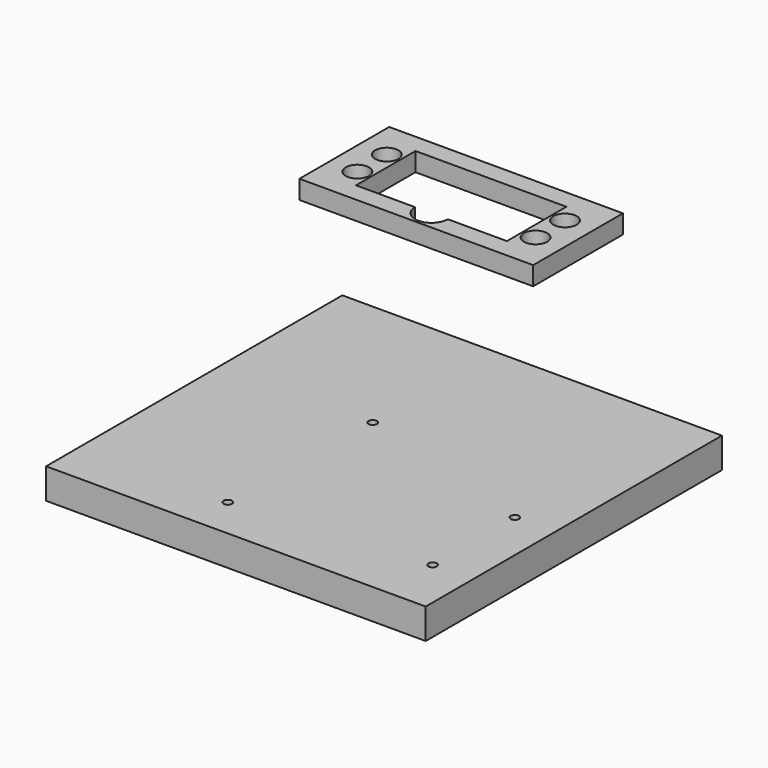
from build123d import *

# Parameters (mm, degrees)
F0_R      = 3.175
F1_DEPTH  = 2.54
F2_W      = 114.3
F2_H      = 114.3
F2_W_2    = 104.14
F2_H_2    = 101.6
F3_DEPTH  = 3.175
F4_W      = 103.124
F4_H      = 100.584
F4_W_2    = 92.964
F4_H_2    = 90.424
F5_DEPTH  = 48.895
F6_W      = 103.124
F6_H      = 100.584
F7_DEPTH  = 8.255
F8_R      = 1.143
F9_DEPTH  = 6.35
F10_R     = 6.35
F11_R     = 1.143
F12_DEPTH = 12.7
F13_R     = 1.651
F14_DEPTH = 53.976
F15_W     = 114.3
F15_H     = 114.3
F15_W_2   = 63.5
F15_H_2   = 30.48
F16_DEPTH = 45.72
F17_W     = 63.5
F17_H     = 3.1115
F18_DEPTH = 45.721


with BuildPart() as f1:
    # F0 (on Top) → F1 (new body, symmetric)
    with BuildSketch(Plane.XY):
        Polygon((57.15, -57.15), (57.15, 57.15), (0, 57.15), (-5.5, 57.15), (-57.15, 57.15), (-57.15, -57.15), align=None)
        with Locations((-29.7062, 28.0797)):
            Circle(F0_R, mode=Mode.SUBTRACT)
        with Locations((-29.7062, 38.0873)):
            Circle(F0_R, mode=Mode.SUBTRACT)
        with BuildLine():
            Line((-25.9978, 22.987), (-25.9978, 43.18))
            Line((-25.9978, 43.18), (14.9978, 43.18))
            Line((14.9978, 43.18), (14.9978, 22.987))
            Line((14.9978, 22.987), (-1.055, 22.987))
            ThreePointArc((-1.055, 22.987), (-5.5, 18.542), (-9.945, 22.987))
            Line((-9.945, 22.987), (-25.9978, 22.987))
        make_face(mode=Mode.SUBTRACT)
        with Locations((18.7062, 28.0797)):
            Circle(F0_R, mode=Mode.SUBTRACT)
        with Locations((18.7062, 38.0873)):
            Circle(F0_R, mode=Mode.SUBTRACT)
    extrude(amount=F1_DEPTH, both=True)

    # F2 (on face) → F3 (join)
    with BuildSketch(Plane(origin=(0, 0, -2.54), x_dir=(1, 0, 0), z_dir=(0, 0, -1))):
        Rectangle(F2_W, F2_H)
        Rectangle(F2_W_2, F2_H_2, mode=Mode.SUBTRACT)
    extrude(amount=F3_DEPTH)

    # F13 (on face) → F14 (cut, through all)
    with BuildSketch(Plane.XY.offset(2.54)):
        with Locations((-48.006, -46.736)):
            Circle(F13_R)
        with Locations((-48.006, 46.736)):
            Circle(F13_R)
        with Locations((48.006, 46.736)):
            Circle(F13_R)
        with Locations((48.006, -46.736)):
            Circle(F13_R)
    extrude(amount=-F14_DEPTH, mode=Mode.SUBTRACT)


with BuildPart() as f5:
    # F4 (on face) → F5 (new body)
    with BuildSketch(Plane(origin=(0, 0, -2.54), x_dir=(1, 0, 0), z_dir=(0, 0, -1))):
        Rectangle(F4_W, F4_H)
        Rectangle(F4_W_2, F4_H_2, mode=Mode.SUBTRACT)
    extrude(amount=F5_DEPTH)

    # F6 (on face) → F7 (join)
    with BuildSketch(Plane(origin=(0, 0, -51.435), x_dir=(1, 0, 0), z_dir=(0, 0, -1))):
        Rectangle(F6_W, F6_H)
    extrude(amount=-F7_DEPTH)

    # F8 (on face) → F9 (cut)
    with BuildSketch(Plane.XY.offset(-43.18)):
        with Locations((-10.033, 8.723)):
            Circle(F8_R)
        with Locations((40.767, -6.517)):
            Circle(F8_R)
        with Locations((40.767, -34.417)):
            Circle(F8_R)
        with Locations((-11.133, -39.117)):
            Circle(F8_R)
    extrude(amount=-F9_DEPTH, mode=Mode.SUBTRACT)

    # F10
    f10_edges = [f5.edges().sort_by_distance(p)[0] for p in [
        (-46.482, 45.212, -22.86),
        (46.482, 45.212, -22.86),
        (46.482, -45.212, -22.86),
        (-46.482, -45.212, -22.86),
    ]]
    fillet(f10_edges, radius=F10_R)

    # F11 (on face) → F12 (cut)
    with BuildSketch(Plane.XY.offset(-2.54)):
        with Locations((-48.006, 46.736)):
            Circle(F11_R)
        with Locations((48.006, 46.736)):
            Circle(F11_R)
        with Locations((48.006, -46.736)):
            Circle(F11_R)
        with Locations((-48.006, -46.736)):
            Circle(F11_R)
    extrude(amount=-F12_DEPTH, mode=Mode.SUBTRACT)


with BuildPart() as f16_tool:
    # F15 (on face) → F16 (new body, through all)
    with BuildSketch(Plane.XY.offset(2.54)):
        Rectangle(F15_W, F15_H)
        with Locations((-5.5, 33.0835)):
            Rectangle(F15_W_2, F15_H_2, mode=Mode.SUBTRACT)
    extrude(amount=-F16_DEPTH)


with BuildPart() as f1_1:
    add(f1.part)

    # F16: cut by f16_tool
    add(f16_tool.part, mode=Mode.SUBTRACT)


with BuildPart() as f5_1:
    add(f5.part)

    # F16: cut by f16_tool
    add(f16_tool.part, mode=Mode.SUBTRACT)

    # F17 (on face) → F18 (cut, through all)
    with BuildSketch(Plane.XY.offset(-43.18)):
        with Locations((-5.5, 46.76775)):
            Rectangle(F17_W, F17_H)
    extrude(amount=F18_DEPTH, mode=Mode.SUBTRACT)


solid = Compound([f1_1.part, f5_1.part])
